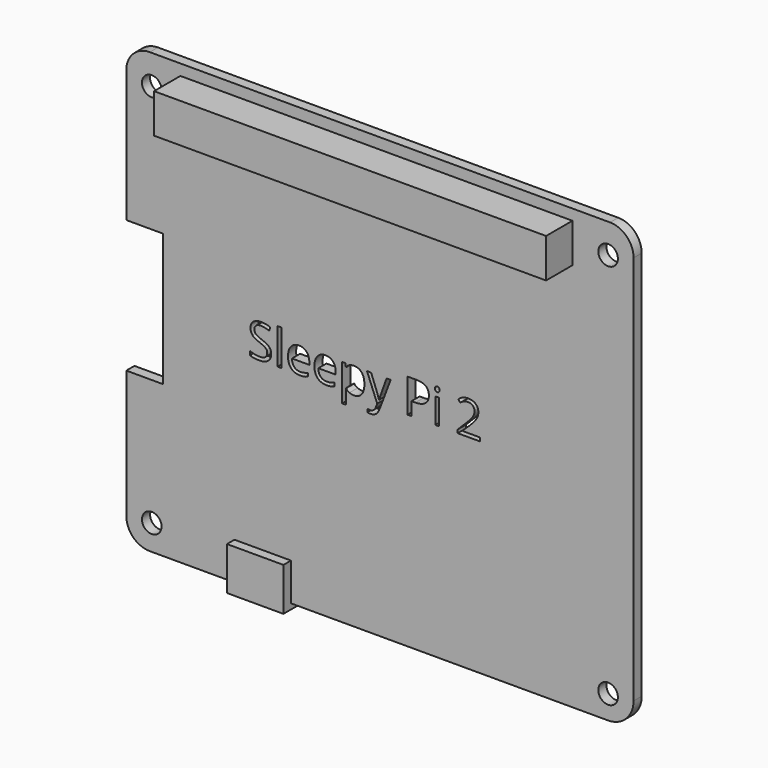
from build123d import *

# Parameters (mm, degrees)
F0_W     = 50
F0_H     = 5
F1_DEPTH = 5.5
F0_R     = 1.25
F0_W_2   = 0.4867145983
F0_H_2   = 3.2119412316
F0_H_3   = 4.5604876524
F0_W_3   = 7.2
F0_H_4   = 0.7
F0_H_5   = 4.8
F2_DEPTH = 1.3
F3_DEPTH = 2.5


with BuildPart() as f1:
    # F0 (on Front) → F1 (new body)
    with BuildSketch(Plane.XZ):
        with Locations((3.4132666333, 19.6838356328)):
            Rectangle(F0_W, F0_H)
    extrude(amount=F1_DEPTH)

    # F0 (on Front) → F2 (join)
    with BuildSketch(Plane.XZ):
        with BuildLine():
            Line((36.2132666333, 19.8080676445), (36.2132666333, 20.5595036458))
            ThreePointArc((36.2132666333, 20.5595036458), (35.3350947407, 22.6803161039), (33.2147029782, 23.5595033019))
            Line((33.2147029782, 23.5595033019), (-25.4852970218, 23.5876077879))
            ThreePointArc((-25.4852970218, 23.5876077879), (-27.6075458249, 22.7094362391), (-28.4867333667, 20.5876081317))
            Line((-28.4867333667, 20.5876081317), (-28.4867333667, 3.7580676445))
            Line((-28.4867333667, 3.7580676445), (-23.7867333667, 3.7580676445))
            Line((-23.7867333667, 3.7580676445), (-23.7867333667, -13.1419323555))
            Line((-23.7867333667, -13.1419323555), (-28.4867333667, -13.1419323555))
            Line((-28.4867333667, -13.1419323555), (-28.4867333667, -29.4419323555))
            ThreePointArc((-28.4867333667, -29.4419323555), (-27.6080537103, -31.563252699), (-25.4867333667, -32.4419323555))
            Line((-25.4867333667, -32.4419323555), (-14.6867333667, -32.4419323555))
            Line((-14.6867333667, -32.4419323555), (-14.6867333667, -27.6419323555))
            Line((-14.6867333667, -27.6419323555), (-7.4867333667, -27.6419323555))
            Line((-7.4867333667, -27.6419323555), (-7.4867333667, -32.4419323555))
            Line((-7.4867333667, -32.4419323555), (32.9632666333, -32.4419323555))
            ThreePointArc((32.9632666333, -32.4419323555), (35.2613636721, -31.4900293943), (36.2132666333, -29.1919323555))
            Line((36.2132666333, -29.1919323555), (36.2132666333, 19.8080676445))
        make_face()
        with Locations((-25.2367333667, -29.1919323555)):
            Circle(F0_R, mode=Mode.SUBTRACT)
        with BuildLine():
            add(Edge.make_bspline(
                [(-5.7695641555, -6.4374929517), (-5.9993234553, -6.4862581908), (-6.3247376472, -6.4862581908)],
                knots=[0, 0, 0, 1, 1, 1], degree=2))
            add(Edge.make_bspline(
                [(-6.3247376472, -6.4862581908), (-7.03652258, -6.4862581908), (-7.44868263, -6.0520600039)],
                knots=[0, 0, 0, 1, 1, 1], degree=2))
            add(Edge.make_bspline(
                [(-7.44868263, -6.0520600039), (-7.86084268, -5.617861817), (-7.86084268, -4.8479337144)],
                knots=[0, 0, 0, 1, 1, 1], degree=2))
            add(Edge.make_bspline(
                [(-7.86084268, -4.8479337144), (-7.86084268, -4.0705032674), (-7.4782231114, -3.6133291505)],
                knots=[0, 0, 0, 1, 1, 1], degree=2))
            add(Edge.make_bspline(
                [(-7.4782231114, -3.6133291505), (-7.0956035428, -3.1561550336), (-6.4504019173, -3.1561550336)],
                knots=[0, 0, 0, 1, 1, 1], degree=2))
            add(Edge.make_bspline(
                [(-6.4504019173, -3.1561550336), (-5.8474009795, -3.1561550336), (-5.4957285819, -3.5533103946)],
                knots=[0, 0, 0, 1, 1, 1], degree=2))
            add(Edge.make_bspline(
                [(-5.4957285819, -3.5533103946), (-5.1440561843, -3.9504657557), (-5.1440561843, -4.6012941396)],
                knots=[0, 0, 0, 1, 1, 1], degree=2))
            Line((-5.1440561843, -4.6012941396), (-5.1440561843, -4.9088902634))
            Line((-5.1440561843, -4.9088902634), (-7.3563100136, -4.9088902634))
            add(Edge.make_bspline(
                [(-7.3563100136, -4.9088902634), (-7.3413053246, -5.4743794787), (-7.0702831302, -5.7674398101)],
                knots=[0, 0, 0, 1, 1, 1], degree=2))
            add(Edge.make_bspline(
                [(-7.0702831302, -5.7674398101), (-6.7992609357, -6.0605001414), (-6.3069195791, -6.0605001414)],
                knots=[0, 0, 0, 1, 1, 1], degree=2))
            add(Edge.make_bspline(
                [(-6.3069195791, -6.0605001414), (-5.7883200167, -6.0605001414), (-5.2819117641, -5.8438699445)],
                knots=[0, 0, 0, 1, 1, 1], degree=2))
            Line((-5.2819117641, -5.8438699445), (-5.2819117641, -6.2780681314))
            add(Edge.make_bspline(
                [(-5.2819117641, -6.2780681314), (-5.5398048557, -6.3887277126), (-5.7695641555, -6.4374929517)],
                knots=[0, 0, 0, 1, 1, 1], degree=2))
        make_face(mode=Mode.SUBTRACT)
        with BuildLine():
            add(Edge.make_bspline(
                [(-2.4019492758, -6.4374929517), (-2.6317085756, -6.4862581908), (-2.9571227676, -6.4862581908)],
                knots=[0, 0, 0, 1, 1, 1], degree=2))
            add(Edge.make_bspline(
                [(-2.9571227676, -6.4862581908), (-3.6689077004, -6.4862581908), (-4.0810677504, -6.0520600039)],
                knots=[0, 0, 0, 1, 1, 1], degree=2))
            add(Edge.make_bspline(
                [(-4.0810677504, -6.0520600039), (-4.4932278004, -5.617861817), (-4.4932278004, -4.8479337144)],
                knots=[0, 0, 0, 1, 1, 1], degree=2))
            add(Edge.make_bspline(
                [(-4.4932278004, -4.8479337144), (-4.4932278004, -4.0705032674), (-4.1106082318, -3.6133291505)],
                knots=[0, 0, 0, 1, 1, 1], degree=2))
            add(Edge.make_bspline(
                [(-4.1106082318, -3.6133291505), (-3.7279886632, -3.1561550336), (-3.0827870376, -3.1561550336)],
                knots=[0, 0, 0, 1, 1, 1], degree=2))
            add(Edge.make_bspline(
                [(-3.0827870376, -3.1561550336), (-2.4797860999, -3.1561550336), (-2.1281137022, -3.5533103946)],
                knots=[0, 0, 0, 1, 1, 1], degree=2))
            add(Edge.make_bspline(
                [(-2.1281137022, -3.5533103946), (-1.7764413046, -3.9504657557), (-1.7764413046, -4.6012941396)],
                knots=[0, 0, 0, 1, 1, 1], degree=2))
            Line((-1.7764413046, -4.6012941396), (-1.7764413046, -4.9088902634))
            Line((-1.7764413046, -4.9088902634), (-3.9886951339, -4.9088902634))
            add(Edge.make_bspline(
                [(-3.9886951339, -4.9088902634), (-3.973690445, -5.4743794787), (-3.7026682505, -5.7674398101)],
                knots=[0, 0, 0, 1, 1, 1], degree=2))
            add(Edge.make_bspline(
                [(-3.7026682505, -5.7674398101), (-3.4316460561, -6.0605001414), (-2.9393046994, -6.0605001414)],
                knots=[0, 0, 0, 1, 1, 1], degree=2))
            add(Edge.make_bspline(
                [(-2.9393046994, -6.0605001414), (-2.4207051371, -6.0605001414), (-1.9142968845, -5.8438699445)],
                knots=[0, 0, 0, 1, 1, 1], degree=2))
            Line((-1.9142968845, -5.8438699445), (-1.9142968845, -6.2780681314))
            add(Edge.make_bspline(
                [(-1.9142968845, -6.2780681314), (-2.1721899761, -6.3887277126), (-2.4019492758, -6.4374929517)],
                knots=[0, 0, 0, 1, 1, 1], degree=2))
        make_face(mode=Mode.SUBTRACT)
        with BuildLine():
            add(Edge.make_bspline(
                [(1.5288103365, -6.0478399351), (1.1757312493, -6.4862581908), (0.548347692, -6.4862581908)],
                knots=[0, 0, 0, 1, 1, 1], degree=2))
            add(Edge.make_bspline(
                [(0.548347692, -6.4862581908), (0.2341870167, -6.4862581908), (-0.0251127644, -6.3704407479)],
                knots=[0, 0, 0, 1, 1, 1], degree=2))
            add(Edge.make_bspline(
                [(-0.0251127644, -6.3704407479), (-0.2844125456, -6.2546233049), (-0.4597798479, -6.0136104884)],
                knots=[0, 0, 0, 1, 1, 1], degree=2))
            Line((-0.4597798479, -6.0136104884), (-0.4954159842, -6.0136104884))
            add(Edge.make_bspline(
                [(-0.4954159842, -6.0136104884), (-0.4597798479, -6.2949484065), (-0.4597798479, -6.5472147398)],
                knots=[0, 0, 0, 1, 1, 1], degree=2))
            Line((-0.4597798479, -6.5472147398), (-0.4597798479, -7.8695029548))
            Line((-0.4597798479, -7.8695029548), (-0.9464944462, -7.8695029548))
            Line((-0.9464944462, -7.8695029548), (-0.9464944462, -3.2152359964))
            Line((-0.9464944462, -3.2152359964), (-0.5507457748, -3.2152359964))
            Line((-0.5507457748, -3.2152359964), (-0.4832246744, -3.6550609417))
            Line((-0.4832246744, -3.6550609417), (-0.4597798479, -3.6550609417))
            add(Edge.make_bspline(
                [(-0.4597798479, -3.6550609417), (-0.2722212358, -3.3906032987), (-0.0232371783, -3.2733791661)],
                knots=[0, 0, 0, 1, 1, 1], degree=2))
            add(Edge.make_bspline(
                [(-0.0232371783, -3.2733791661), (0.2257468792, -3.1561550336), (0.548347692, -3.1561550336)],
                knots=[0, 0, 0, 1, 1, 1], degree=2))
            add(Edge.make_bspline(
                [(0.548347692, -3.1561550336), (1.186984766, -3.1561550336), (1.5344370949, -3.5931665997)],
                knots=[0, 0, 0, 1, 1, 1], degree=2))
            add(Edge.make_bspline(
                [(1.5344370949, -3.5931665997), (1.8818894237, -4.0301781658), (1.8818894237, -4.8179243365)],
                knots=[0, 0, 0, 1, 1, 1], degree=2))
            add(Edge.make_bspline(
                [(1.8818894237, -4.8179243365), (1.8818894237, -5.6094216794), (1.5288103365, -6.0478399351)],
                knots=[0, 0, 0, 1, 1, 1], degree=2))
        make_face(mode=Mode.SUBTRACT)
        with BuildLine():
            Line((3.517400521, -6.4449952962), (2.2213705116, -3.2152359964))
            Line((2.2213705116, -3.2152359964), (2.7437212462, -3.2152359964))
            Line((2.7437212462, -3.2152359964), (3.4470660414, -5.0467458432))
            add(Edge.make_bspline(
                [(3.4470660414, -5.0467458432), (3.6777631343, -5.6741294006), (3.7340307179, -5.9526539395)],
                knots=[0, 0, 0, 1, 1, 1], degree=2))
            Line((3.7340307179, -5.9526539395), (3.7574755444, -5.9526539395))
            add(Edge.make_bspline(
                [(3.7574755444, -5.9526539395), (3.7949872668, -5.8026070499), (3.9169003647, -5.4406189286)],
                knots=[0, 0, 0, 1, 1, 1], degree=2))
            add(Edge.make_bspline(
                [(3.9169003647, -5.4406189286), (4.0388134625, -5.0786308073), (4.7130866729, -3.2152359964)],
                knots=[0, 0, 0, 1, 1, 1], degree=2))
            Line((4.7130866729, -3.2152359964), (5.2344996144, -3.2152359964))
            Line((5.2344996144, -3.2152359964), (3.8540682296, -6.8726289317))
            add(Edge.make_bspline(
                [(3.8540682296, -6.8726289317), (3.6486915494, -7.4146733206), (3.3748559758, -7.6420881377)],
                knots=[0, 0, 0, 1, 1, 1], degree=2))
            add(Edge.make_bspline(
                [(3.3748559758, -7.6420881377), (3.1010204022, -7.8695029548), (2.7024583515, -7.8695029548)],
                knots=[0, 0, 0, 1, 1, 1], degree=2))
            add(Edge.make_bspline(
                [(2.7024583515, -7.8695029548), (2.4792636032, -7.8695029548), (2.2626334062, -7.8188621296)],
                knots=[0, 0, 0, 1, 1, 1], degree=2))
            Line((2.2626334062, -7.8188621296), (2.2626334062, -7.4296780095))
            add(Edge.make_bspline(
                [(2.2626334062, -7.4296780095), (2.4239338126, -7.4643763528), (2.6227459414, -7.4643763528)],
                knots=[0, 0, 0, 1, 1, 1], degree=2))
            add(Edge.make_bspline(
                [(2.6227459414, -7.4643763528), (3.1244652287, -7.4643763528), (3.3382820464, -6.9017005166)],
                knots=[0, 0, 0, 1, 1, 1], degree=2))
            Line((3.3382820464, -6.9017005166), (3.517400521, -6.4449952962))
        make_face(mode=Mode.SUBTRACT)
        with Locations((32.9632666333, -29.4293743957)):
            Circle(F0_R, mode=Mode.SUBTRACT)
        with Locations((11.1721363759, -4.8212066122)):
            Rectangle(F0_W_2, F0_H_2, mode=Mode.SUBTRACT)
        with BuildLine():
            add(Edge.make_bspline(
                [(-10.2569039492, -4.5722225547), (-10.0036998229, -4.8479337144), (-10.0036998229, -5.2868208667)],
                knots=[0, 0, 0, 1, 1, 1], degree=2))
            add(Edge.make_bspline(
                [(-10.0036998229, -5.2868208667), (-10.0036998229, -5.8523100821), (-10.4139842868, -6.1692841364)],
                knots=[0, 0, 0, 1, 1, 1], degree=2))
            add(Edge.make_bspline(
                [(-10.4139842868, -6.1692841364), (-10.8242687507, -6.4862581908), (-11.5276135459, -6.4862581908)],
                knots=[0, 0, 0, 1, 1, 1], degree=2))
            add(Edge.make_bspline(
                [(-11.5276135459, -6.4862581908), (-12.2891015109, -6.4862581908), (-12.6998548713, -6.2893216482)],
                knots=[0, 0, 0, 1, 1, 1], degree=2))
            Line((-12.6998548713, -6.2893216482), (-12.6998548713, -5.8091716013))
            add(Edge.make_bspline(
                [(-12.6998548713, -5.8091716013), (-12.4353972283, -5.9198311824), (-12.1249877254, -5.9845389036)],
                knots=[0, 0, 0, 1, 1, 1], degree=2))
            add(Edge.make_bspline(
                [(-12.1249877254, -5.9845389036), (-11.8145782224, -6.0492466247), (-11.5097954778, -6.0492466247)],
                knots=[0, 0, 0, 1, 1, 1], degree=2))
            add(Edge.make_bspline(
                [(-11.5097954778, -6.0492466247), (-11.0118273627, -6.0492466247), (-10.7595610295, -5.8602813231)],
                knots=[0, 0, 0, 1, 1, 1], degree=2))
            add(Edge.make_bspline(
                [(-10.7595610295, -5.8602813231), (-10.5072946963, -5.6713160214), (-10.5072946963, -5.3337105197)],
                knots=[0, 0, 0, 1, 1, 1], degree=2))
            add(Edge.make_bspline(
                [(-10.5072946963, -5.3337105197), (-10.5072946963, -5.1114535644), (-10.5968539336, -4.9693779157)],
                knots=[0, 0, 0, 1, 1, 1], degree=2))
            add(Edge.make_bspline(
                [(-10.5968539336, -4.9693779157), (-10.6864131708, -4.8273022671), (-10.8960099198, -4.7067958589)],
                knots=[0, 0, 0, 1, 1, 1], degree=2))
            add(Edge.make_bspline(
                [(-10.8960099198, -4.7067958589), (-11.1056066688, -4.5862894506), (-11.5332403043, -4.4343669748)],
                knots=[0, 0, 0, 1, 1, 1], degree=2))
            add(Edge.make_bspline(
                [(-11.5332403043, -4.4343669748), (-12.1306144837, -4.2205501571), (-12.3871008857, -3.9274898257)],
                knots=[0, 0, 0, 1, 1, 1], degree=2))
            add(Edge.make_bspline(
                [(-12.3871008857, -3.9274898257), (-12.6435872877, -3.6344294944), (-12.6435872877, -3.162719585)],
                knots=[0, 0, 0, 1, 1, 1], degree=2))
            add(Edge.make_bspline(
                [(-12.6435872877, -3.162719585), (-12.6435872877, -2.6675648492), (-12.2717523393, -2.3745045178)],
                knots=[0, 0, 0, 1, 1, 1], degree=2))
            add(Edge.make_bspline(
                [(-12.2717523393, -2.3745045178), (-11.8999173909, -2.0814441865), (-11.2866007294, -2.0814441865)],
                knots=[0, 0, 0, 1, 1, 1], degree=2))
            add(Edge.make_bspline(
                [(-11.2866007294, -2.0814441865), (-10.6479636553, -2.0814441865), (-10.1115460248, -2.3158924515)],
                knots=[0, 0, 0, 1, 1, 1], degree=2))
            Line((-10.1115460248, -2.3158924515), (-10.2672196728, -2.7491528454))
            add(Edge.make_bspline(
                [(-10.2672196728, -2.7491528454), (-10.798010545, -2.5268958901), (-11.2987920392, -2.5268958901)],
                knots=[0, 0, 0, 1, 1, 1], degree=2))
            add(Edge.make_bspline(
                [(-11.2987920392, -2.5268958901), (-11.6945407107, -2.5268958901), (-11.9172665625, -2.696636434)],
                knots=[0, 0, 0, 1, 1, 1], degree=2))
            add(Edge.make_bspline(
                [(-11.9172665625, -2.696636434), (-12.1399924143, -2.866376978), (-12.1399924143, -3.1683463434)],
                knots=[0, 0, 0, 1, 1, 1], degree=2))
            add(Edge.make_bspline(
                [(-12.1399924143, -3.1683463434), (-12.1399924143, -3.3906032987), (-12.0579355215, -3.5331478439)],
                knots=[0, 0, 0, 1, 1, 1], degree=2))
            add(Edge.make_bspline(
                [(-12.0579355215, -3.5331478439), (-11.9758786288, -3.675692389), (-11.7808176722, -3.7943232112)],
                knots=[0, 0, 0, 1, 1, 1], degree=2))
            add(Edge.make_bspline(
                [(-11.7808176722, -3.7943232112), (-11.5857567157, -3.9129540333), (-11.1843812859, -4.0564363715)],
                knots=[0, 0, 0, 1, 1, 1], degree=2))
            add(Edge.make_bspline(
                [(-11.1843812859, -4.0564363715), (-10.5101080755, -4.296511395), (-10.2569039492, -4.5722225547)],
                knots=[0, 0, 0, 1, 1, 1], degree=2))
        make_face(mode=Mode.SUBTRACT)
        with Locations((-8.956653871, -4.1469334018)):
            Rectangle(F0_W_2, F0_H_3, mode=Mode.SUBTRACT)
        with Locations((-25.2367333667, 19.8376077879)):
            Circle(F0_R, mode=Mode.SUBTRACT)
        with Locations((3.4132666333, 19.6838356328)):
            Rectangle(F0_W, F0_H, mode=Mode.SUBTRACT)
        with BuildLine():
            add(Edge.make_bspline(
                [(8.4998950505, -2.1424007354), (10.1053967698, -2.1424007354), (10.1053967698, -3.3906032987)],
                knots=[0, 0, 0, 1, 1, 1], degree=2))
            add(Edge.make_bspline(
                [(10.1053967698, -3.3906032987), (10.1053967698, -4.0414316826), (9.6613517557, -4.3916973906)],
                knots=[0, 0, 0, 1, 1, 1], degree=2))
            add(Edge.make_bspline(
                [(9.6613517557, -4.3916973906), (9.2173067417, -4.7419630986), (8.3911110555, -4.7419630986)],
                knots=[0, 0, 0, 1, 1, 1], degree=2))
            Line((8.3911110555, -4.7419630986), (7.886578389, -4.7419630986))
            Line((7.886578389, -4.7419630986), (7.886578389, -6.427177228))
            Line((7.886578389, -6.427177228), (7.388610274, -6.427177228))
            Line((7.388610274, -6.427177228), (7.388610274, -2.1424007354))
            Line((7.388610274, -2.1424007354), (8.4998950505, -2.1424007354))
        make_face(mode=Mode.SUBTRACT)
        with BuildLine():
            add(Edge.make_bspline(
                [(10.9695730749, -2.5897280252), (10.8875161821, -2.509077822), (10.8875161821, -2.3449640364)],
                knots=[0, 0, 0, 1, 1, 1], degree=2))
            add(Edge.make_bspline(
                [(10.8875161821, -2.3449640364), (10.8875161821, -2.1780368717), (10.9695730749, -2.1002000477)],
                knots=[0, 0, 0, 1, 1, 1], degree=2))
            add(Edge.make_bspline(
                [(10.9695730749, -2.1002000477), (11.0516299677, -2.0223632237), (11.1754186516, -2.0223632237)],
                knots=[0, 0, 0, 1, 1, 1], degree=2))
            add(Edge.make_bspline(
                [(11.1754186516, -2.0223632237), (11.2926427842, -2.0223632237), (11.3775130561, -2.1016067373)],
                knots=[0, 0, 0, 1, 1, 1], degree=2))
            add(Edge.make_bspline(
                [(11.3775130561, -2.1016067373), (11.4623833281, -2.1808502509), (11.4623833281, -2.3449640364)],
                knots=[0, 0, 0, 1, 1, 1], degree=2))
            add(Edge.make_bspline(
                [(11.4623833281, -2.3449640364), (11.4623833281, -2.509077822), (11.3775130561, -2.5897280252)],
                knots=[0, 0, 0, 1, 1, 1], degree=2))
            add(Edge.make_bspline(
                [(11.3775130561, -2.5897280252), (11.2926427842, -2.6703782283), (11.1754186516, -2.6703782283)],
                knots=[0, 0, 0, 1, 1, 1], degree=2))
            add(Edge.make_bspline(
                [(11.1754186516, -2.6703782283), (11.0516299677, -2.6703782283), (10.9695730749, -2.5897280252)],
                knots=[0, 0, 0, 1, 1, 1], degree=2))
        make_face(mode=Mode.SUBTRACT)
        with BuildLine():
            Line((16.6005515056, -5.976098766), (16.6005515056, -6.427177228))
            Line((16.6005515056, -6.427177228), (13.7843589455, -6.427177228))
            Line((13.7843589455, -6.427177228), (13.7843589455, -6.0079837301))
            Line((13.7843589455, -6.0079837301), (14.9125239971, -4.8741919201))
            add(Edge.make_bspline(
                [(14.9125239971, -4.8741919201), (15.4283101802, -4.3518411855), (15.5924239658, -4.1291153337)],
                knots=[0, 0, 0, 1, 1, 1], degree=2))
            add(Edge.make_bspline(
                [(15.5924239658, -4.1291153337), (15.7565377513, -3.9063894819), (15.8385946441, -3.6953860433)],
                knots=[0, 0, 0, 1, 1, 1], degree=2))
            add(Edge.make_bspline(
                [(15.8385946441, -3.6953860433), (15.9206515369, -3.4843826047), (15.9206515369, -3.2414942021)],
                knots=[0, 0, 0, 1, 1, 1], degree=2))
            add(Edge.make_bspline(
                [(15.9206515369, -3.2414942021), (15.9206515369, -2.898261942), (15.7124614775, -2.6975742271)],
                knots=[0, 0, 0, 1, 1, 1], degree=2))
            add(Edge.make_bspline(
                [(15.7124614775, -2.6975742271), (15.5042714181, -2.4968865122), (15.1347809523, -2.4968865122)],
                knots=[0, 0, 0, 1, 1, 1], degree=2))
            add(Edge.make_bspline(
                [(15.1347809523, -2.4968865122), (14.8684477232, -2.4968865122), (14.6293104928, -2.5850390599)],
                knots=[0, 0, 0, 1, 1, 1], degree=2))
            add(Edge.make_bspline(
                [(14.6293104928, -2.5850390599), (14.3901732624, -2.6731916075), (14.0975818276, -2.9048264934)],
                knots=[0, 0, 0, 1, 1, 1], degree=2))
            Line((14.0975818276, -2.9048264934), (13.839688736, -2.5737855431))
            add(Edge.make_bspline(
                [(13.839688736, -2.5737855431), (14.4314361571, -2.0814441865), (15.129154194, -2.0814441865)],
                knots=[0, 0, 0, 1, 1, 1], degree=2))
            add(Edge.make_bspline(
                [(15.129154194, -2.0814441865), (15.7330929248, -2.0814441865), (16.0758562884, -2.3904469998)],
                knots=[0, 0, 0, 1, 1, 1], degree=2))
            add(Edge.make_bspline(
                [(16.0758562884, -2.3904469998), (16.4186196519, -2.6994498132), (16.4186196519, -3.2208627548)],
                knots=[0, 0, 0, 1, 1, 1], degree=2))
            add(Edge.make_bspline(
                [(16.4186196519, -3.2208627548), (16.4186196519, -3.628802736), (16.1897981452, -4.0273647866)],
                knots=[0, 0, 0, 1, 1, 1], degree=2))
            add(Edge.make_bspline(
                [(16.1897981452, -4.0273647866), (15.9609766385, -4.4259268373), (15.3345308742, -5.0354923265)],
                knots=[0, 0, 0, 1, 1, 1], degree=2))
            Line((15.3345308742, -5.0354923265), (14.3967378139, -5.9526539395))
            Line((14.3967378139, -5.9526539395), (14.3967378139, -5.976098766))
            Line((14.3967378139, -5.976098766), (16.6005515056, -5.976098766))
        make_face(mode=Mode.SUBTRACT)
        with Locations((32.9632666333, 19.8080676445)):
            Circle(F0_R, mode=Mode.SUBTRACT)
        with Locations((-11.0867333667, -32.7919323555)):
            Rectangle(F0_W_3, F0_H_4)
        with Locations((-11.0867333667, -30.0419323555)):
            Rectangle(F0_W_3, F0_H_5)
    extrude(amount=F2_DEPTH)

    # F0 (on Front) → F3 (join)
    with BuildSketch(Plane.XZ):
        with Locations((-11.0867333667, -30.0419323555)):
            Rectangle(F0_W_3, F0_H_5)
        with Locations((-11.0867333667, -32.7919323555)):
            Rectangle(F0_W_3, F0_H_4)
    extrude(amount=F3_DEPTH)


solid = f1.part
